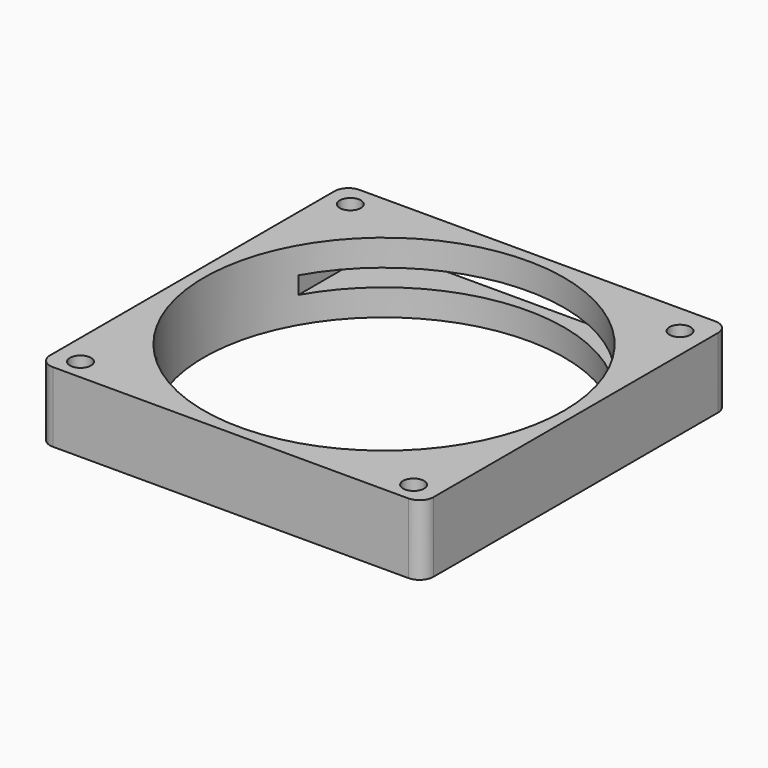
from build123d import *

# Parameters (mm, degrees)
F0_R     = 2.25
F0_R_2   = 38.5
F1_DEPTH = 15
F2_W     = 67
F2_H     = 3.7
F3_DEPTH = 78


with BuildPart() as f1:
    # F0 (on Top) → F1 (new body)
    with BuildSketch(Plane.XY):
        with BuildLine():
            ThreePointArc((-22.661046, -11.973848), (-23.539726, -9.852527), (-25.661046, -8.973848))
            Line((-25.661046, -8.973848), (-101.661046, -8.973848))
            ThreePointArc((-101.661046, -8.973848), (-103.782367, -9.852527), (-104.661046, -11.973848))
            Line((-104.661046, -11.973848), (-104.661046, -87.973848))
            ThreePointArc((-104.661046, -87.973848), (-103.782367, -90.095168), (-101.661046, -90.973848))
            Line((-101.661046, -90.973848), (-25.661046, -90.973848))
            ThreePointArc((-25.661046, -90.973848), (-23.539726, -90.095168), (-22.661046, -87.973848))
            Line((-22.661046, -87.973848), (-22.661046, -11.973848))
        make_face()
        with Locations((-99.261046, -86.573848)):
            Circle(F0_R, mode=Mode.SUBTRACT)
        with Locations((-28.061046, -86.573848)):
            Circle(F0_R, mode=Mode.SUBTRACT)
        with Locations((-63.661046, -49.973848)):
            Circle(F0_R_2, mode=Mode.SUBTRACT)
        with Locations((-99.661046, -13.973848)):
            Circle(F0_R, mode=Mode.SUBTRACT)
        with Locations((-28.061046, -15.373848)):
            Circle(F0_R, mode=Mode.SUBTRACT)
    extrude(amount=F1_DEPTH)

    # F2 (on face) → F3 (cut)
    with BuildSketch(Plane(origin=(0, -8.973848, 0), x_dir=(-1, 0, 0), z_dir=(0, 1, 0))):
        with Locations((63.661046, 7.5)):
            Rectangle(F2_W, F2_H)
    extrude(amount=-F3_DEPTH, mode=Mode.SUBTRACT)


solid = f1.part
